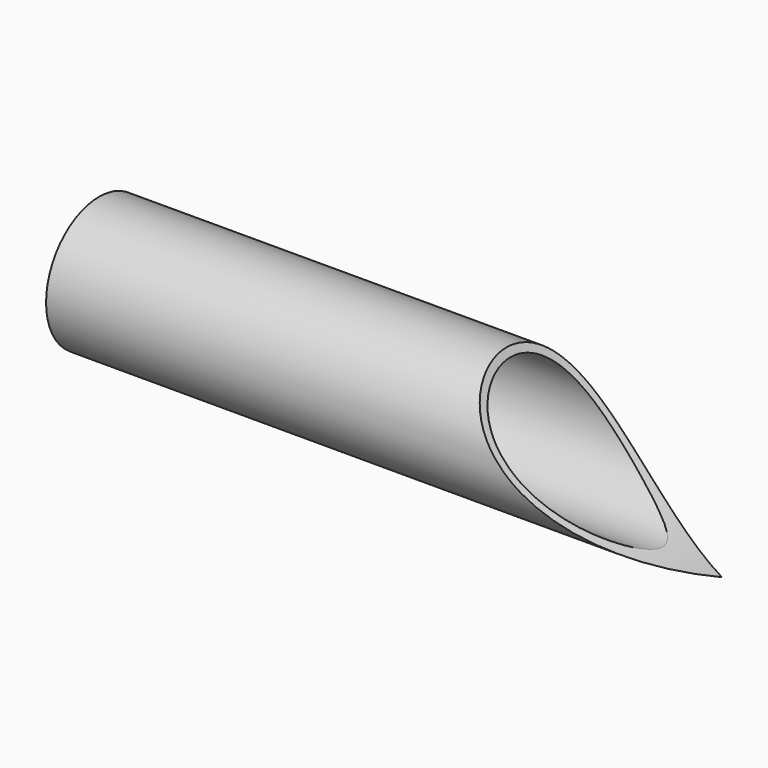
from build123d import *

# Parameters (mm, degrees)
F0_R     = 8.5
F0_R_2   = 7.55
F1_DEPTH = 80
F2_R     = 31
F3_DEPTH = 25.4
F4_DEPTH = 25.4
F6_ANGLE = -90
F8_ANGLE = -90


with BuildPart() as f1:
    # F0 (on Top) → F1 (new body)
    with BuildSketch(Plane.XY):
        Circle(F0_R)
        Circle(F0_R_2, mode=Mode.SUBTRACT)
    extrude(amount=F1_DEPTH)

    # F2 (on Right) → F3 (cut)
    with BuildSketch(Plane.YZ):
        with Locations((22.5, 0)):
            Circle(F2_R)
    extrude(amount=-F3_DEPTH, mode=Mode.SUBTRACT)

    # F2 (on Right) → F4 (cut)
    with BuildSketch(Plane.YZ):
        with Locations((22.5, 0)):
            Circle(F2_R)
    extrude(amount=F4_DEPTH, mode=Mode.SUBTRACT)


with BuildPart() as f1_1:
    # F6: moved
    add(f1.part.rotate(Axis((14.042603, 0, 0), (-1, 0, 0)), F6_ANGLE))


with BuildPart() as f1_2:
    # F8: moved
    add(f1_1.part.rotate(Axis((0, 0, 13.531513), (0, 0, 1)), F8_ANGLE))


solid = f1_2.part
